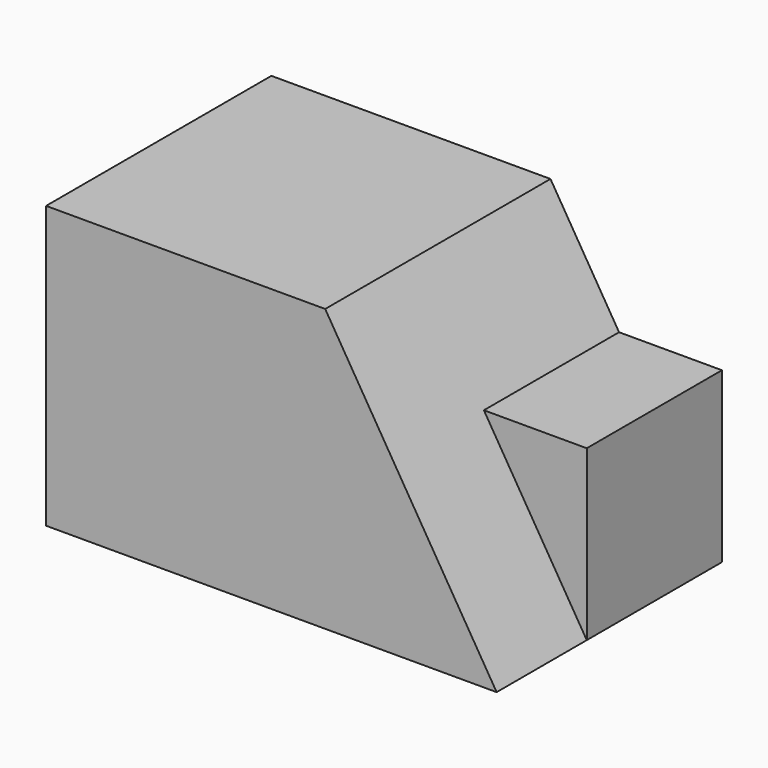
from build123d import *

# Parameters (mm, degrees)
F0_W     = 50.8
F0_H     = 31.75
F1_DEPTH = 31.75
F4_DEPTH = 31.75
F2_W     = 19.05
F2_H     = 19.05
F5_DEPTH = 25.4


with BuildPart() as f1:
    # F0 (on Front) → F1 (new body)
    with BuildSketch(Plane.XZ):
        with Locations((25.4, 15.875)):
            Rectangle(F0_W, F0_H)
    extrude(amount=F1_DEPTH)

    # F3 (on face) → F4 (cut)
    with BuildSketch(Plane.XZ.offset(31.75)):
        Polygon((31.470876, 31.75), (50.8, 0), (50.8, 31.75), align=None)
    extrude(amount=-F4_DEPTH, mode=Mode.SUBTRACT)


with BuildPart() as f5:
    # F2 (on face) → F5 (new body)
    with BuildSketch(Plane.YZ.offset(50.8)):
        with Locations((-9.525, 9.525)):
            Rectangle(F2_W, F2_H)
    extrude(amount=-F5_DEPTH)


solid = Compound([f1.part, f5.part])
